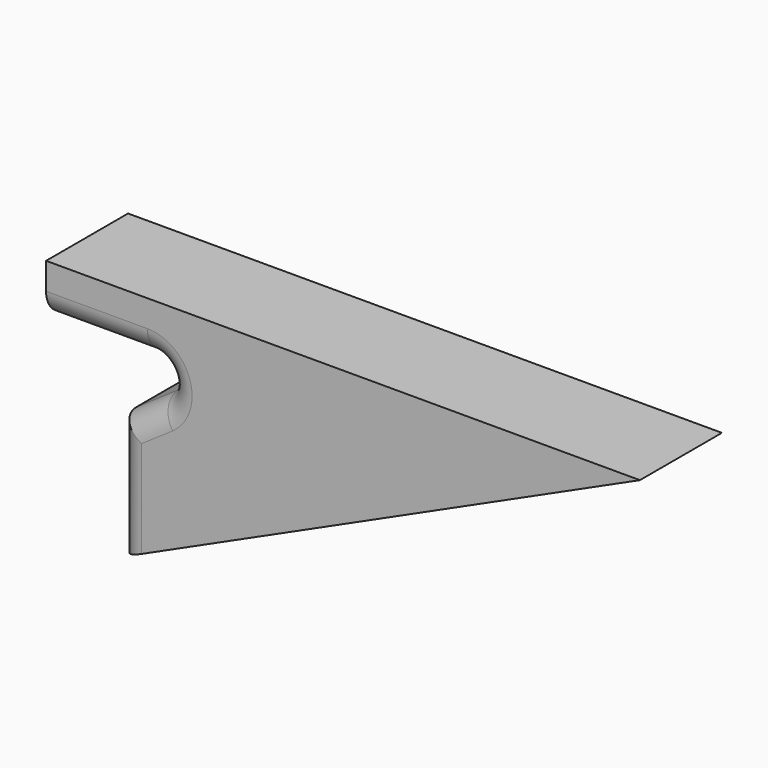
from build123d import *

# Parameters (mm, degrees)
F1_DEPTH = 4
F2_R     = 0.75
F3_R     = 1


with BuildPart() as f1:
    # F0 (on Front) → F1 (new body)
    with BuildSketch(Plane.XZ):
        Polygon((-3.4779643061, -6.6976709247), (16.9765876419, 2.6205155937), (-6.205236799, 2.6205155937), (-6.205236799, 0.575057485), (0.1584017682, 0.575057485), (-3.4779643061, -1.924942515), align=None)
    extrude(amount=F1_DEPTH)

    # F2
    f2_edges = [f1.edges().sort_by_distance(p)[0] for p in [
        (0.158402, -2, 0.575057),
    ]]
    fillet(f2_edges, radius=F2_R)

    # F3
    f3_edges = [f1.edges().sort_by_distance(p)[0] for p in [
        (-3.477964, -4, -4.311307),
        (-2.654714, -4, -1.358958),
        (-3.477964, 0, -4.311307),
        (-1.540112, 0, 0.047517),
    ]]
    fillet(f3_edges, radius=F3_R)


solid = f1.part
